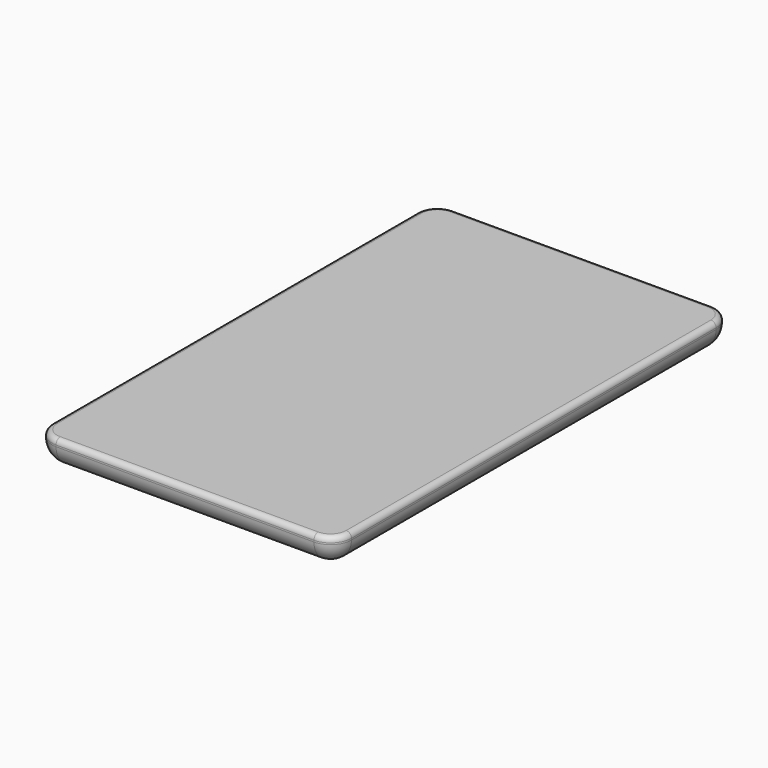
from build123d import *

# Parameters (mm, degrees)
F0_W     = 115
F0_H     = 191
F1_DEPTH = 10.6
F2_R     = 8
F3_R     = 2
F4_W     = 10.75
F4_H     = 4.15
F5_DEPTH = 2
F6_R     = 2


with BuildPart() as f1:
    # F0 (on Top) → F1 (new body)
    with BuildSketch(Plane.XY):
        Rectangle(F0_W, F0_H)
    extrude(amount=F1_DEPTH)

    # F2
    f2_edges = [f1.edges().sort_by_distance(p)[0] for p in [
        (-57.5, 0, 0),
        (0, 95.5, 0),
        (57.5, 0, 0),
        (0, -95.5, 0),
        (-57.5, 95.5, 5.3),
        (57.5, 95.5, 5.3),
        (57.5, -95.5, 5.3),
        (-57.5, -95.5, 5.3),
    ]]
    fillet(f2_edges, radius=F2_R)

    # F3
    f3_edges = [f1.edges().sort_by_distance(p)[0] for p in [
        (0, -95.5, 10.6),
    ]]
    fillet(f3_edges, radius=F3_R)


with BuildPart() as f5:
    # F4 (on face) → F5 (new body)
    with BuildSketch(Plane(origin=(0, 95.5, 0), x_dir=(-1, 0, 0), z_dir=(0, 1, 0))):
        with Locations((-24.175, 5.925)):
            Rectangle(F4_W, F4_H)
    extrude(amount=F5_DEPTH)

    # F6
    f6_edges = [f5.edges().sort_by_distance(p)[0] for p in [
        (18.8, 96.5, 8),
        (18.8, 96.5, 3.85),
        (29.55, 96.5, 3.85),
        (29.55, 96.5, 8),
    ]]
    fillet(f6_edges, radius=F6_R)


solid = Compound([f1.part, f5.part])
